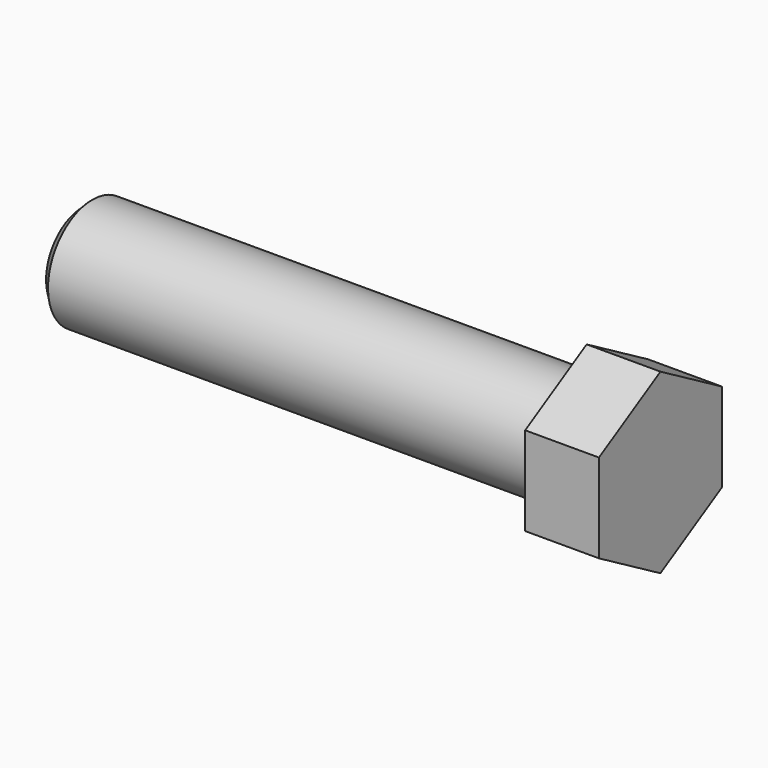
from build123d import *

# Parameters (mm, degrees)
F0_W      = 260.35
F0_H      = 28.575
F1_FACE_R = 28.575
F3_DEPTH  = 38.1
F4_SIZE   = 5.08


with BuildPart() as f1:
    # F0 (on Front) → F1 (revolve)
    with BuildSketch(Plane.XZ):
        with Locations((-130.175, 14.2875)):
            Rectangle(F0_W, F0_H)
    revolve(axis=Axis((-130.175, 0, 0), (-1, 0, 0)))

    # F2 (on Right) + F1_face (on face) → F3 (join)
    with BuildSketch(Plane.YZ):
        Polygon((-39.6875, -22.913589), (0, -45.827178), (39.6875, -22.913589), (39.6875, 22.913589), (0, 45.827178), (-39.6875, 22.913589), align=None)
    with BuildSketch(Plane.YZ):
        Circle(F1_FACE_R)
    extrude(amount=F3_DEPTH)

    # F4
    f4_edges = [f1.edges().sort_by_distance(p)[0] for p in [
        (-260.35, 0, -28.575),
    ]]
    chamfer(f4_edges, length=F4_SIZE)


solid = f1.part
